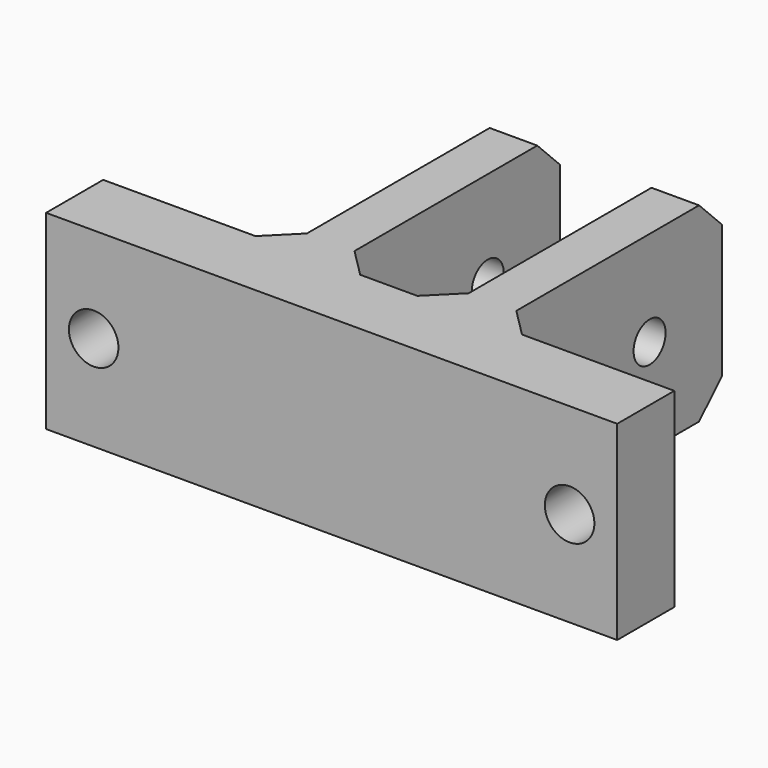
from build123d import *

# Parameters (mm, degrees)
F0_W     = 5
F0_H     = 30
F1_DEPTH = 20
F3_D     = 5.2
F5_D     = 4.2
F6_SIZE  = 3


with BuildPart() as f1:
    # F0 (on Top) → F1 (new body)
    with BuildSketch(Plane.XY):
        Polygon((6.111111, 39.583333), (6.111111, 32.083333), (66.111111, 32.083333), (66.111111, 39.583333), (47.111111, 39.583333), (42.111111, 39.583333), (30.111111, 39.583333), (25.111111, 39.583333), align=None)
        with Locations((27.611111, 54.583333)):
            Rectangle(F0_W, F0_H)
        with Locations((44.611111, 54.583333)):
            Rectangle(F0_W, F0_H)
    extrude(amount=F1_DEPTH)

    # F3 (through all)
    with Locations(Plane.XZ.offset(-32.083333)):
        with Locations((11.111111, 10), (61.111111, 10)):
            Hole(F3_D / 2)

    # F5 (through all)
    with Locations(Plane(origin=(25.111111, 0, 0), x_dir=(0, -1, 0), z_dir=(-1, 0, 0))):
        with Locations((-60.083333, 10)):
            Hole(F5_D / 2)

    # F6
    f6_edges = [f1.edges().sort_by_distance(p)[0] for p in [
        (27.611111, 69.583333, 20),
        (44.611111, 69.583333, 20),
        (44.611111, 69.583333, 0),
        (27.611111, 69.583333, 0),
        (25.111111, 39.583333, 10),
        (47.111111, 39.583333, 10),
        (42.111111, 39.583333, 10),
        (30.111111, 39.583333, 10),
    ]]
    chamfer(f6_edges, length=F6_SIZE)


solid = f1.part
